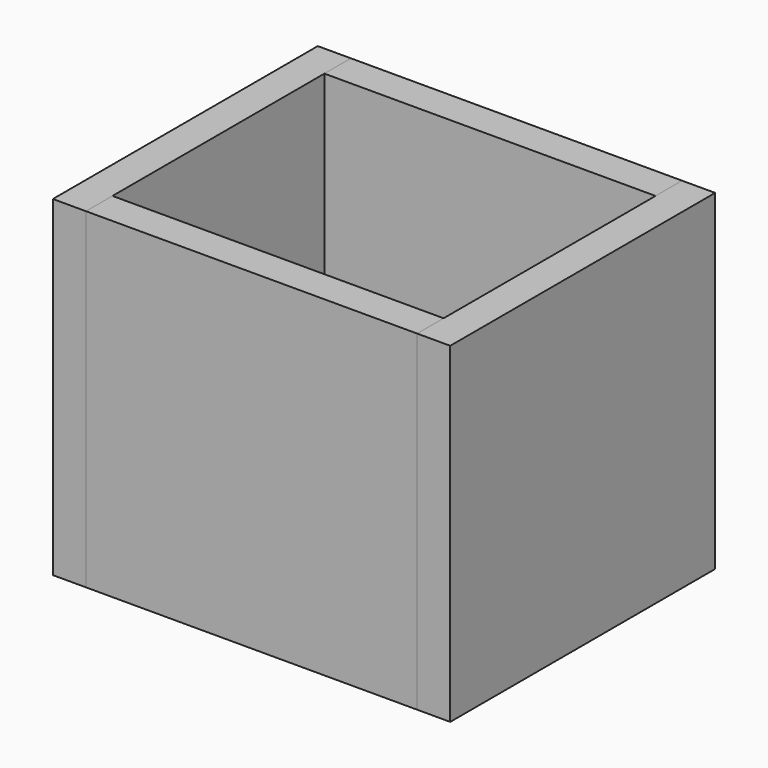
from build123d import *

# Parameters (mm, degrees)
F0_W     = 1
F0_H     = 10
F1_DEPTH = 10
F2_W     = 10
F2_H     = 1
F3_DEPTH = 10
F4_W     = 10
F4_H     = 1
F5_DEPTH = 10
F6_W     = 1
F6_H     = 10
F7_DEPTH = 10
F8_W     = 10
F8_H     = 8
F9_DEPTH = 1


with BuildPart() as f1:
    # F0 (on Top) → F1 (new body)
    with BuildSketch(Plane.XY):
        with Locations((0.5, -5)):
            Rectangle(F0_W, F0_H)
    extrude(amount=F1_DEPTH)


with BuildPart() as f3:
    # F2 (on Top) → F3 (new body)
    with BuildSketch(Plane.XY):
        with Locations((6, -9.5)):
            Rectangle(F2_W, F2_H)
    extrude(amount=F3_DEPTH)


with BuildPart() as f5:
    # F4 (on Top) → F5 (new body)
    with BuildSketch(Plane.XY):
        with Locations((6, -0.5)):
            Rectangle(F4_W, F4_H)
    extrude(amount=F5_DEPTH)


with BuildPart() as f7:
    # F6 (on Top) → F7 (new body)
    with BuildSketch(Plane.XY):
        with Locations((11.5, -5)):
            Rectangle(F6_W, F6_H)
    extrude(amount=F7_DEPTH)


with BuildPart() as f9:
    # F8 (on Top) → F9 (new body)
    with BuildSketch(Plane.XY):
        with Locations((6, -5)):
            Rectangle(F8_W, F8_H)
    extrude(amount=F9_DEPTH)


solid = Compound([f1.part, f3.part, f5.part, f7.part, f9.part])
